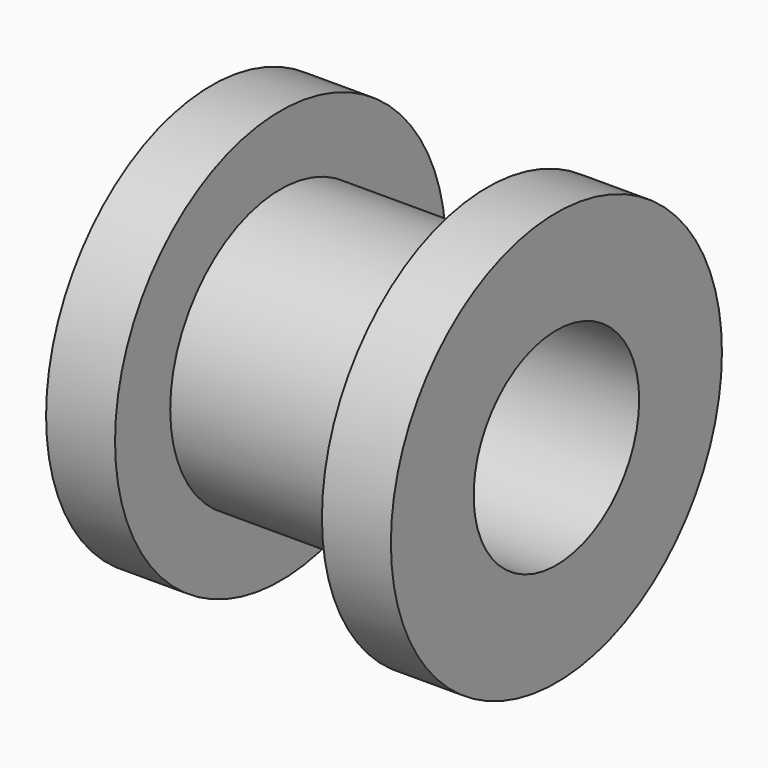
from build123d import *

# Parameters (mm, degrees)
F0_R     = 30
F1_DEPTH = 10
F2_R     = 20
F3_DEPTH = 30
F4_R     = 30
F5_DEPTH = 10
F6_R     = 15
F7_DEPTH = 50


with BuildPart() as f1:
    # F0 (on Right) → F1 (new body)
    with BuildSketch(Plane.YZ):
        Circle(F0_R)
    extrude(amount=F1_DEPTH)

    # F2 (on face) → F3 (join)
    with BuildSketch(Plane.YZ.offset(10)):
        Circle(F2_R)
    extrude(amount=F3_DEPTH)

    # F4 (on face) → F5 (join)
    with BuildSketch(Plane.YZ.offset(40)):
        Circle(F4_R)
    extrude(amount=F5_DEPTH)

    # F6 (on face) → F7 (cut, through all)
    with BuildSketch(Plane.YZ.offset(50)):
        Circle(F6_R)
    extrude(amount=-F7_DEPTH, mode=Mode.SUBTRACT)


solid = f1.part
